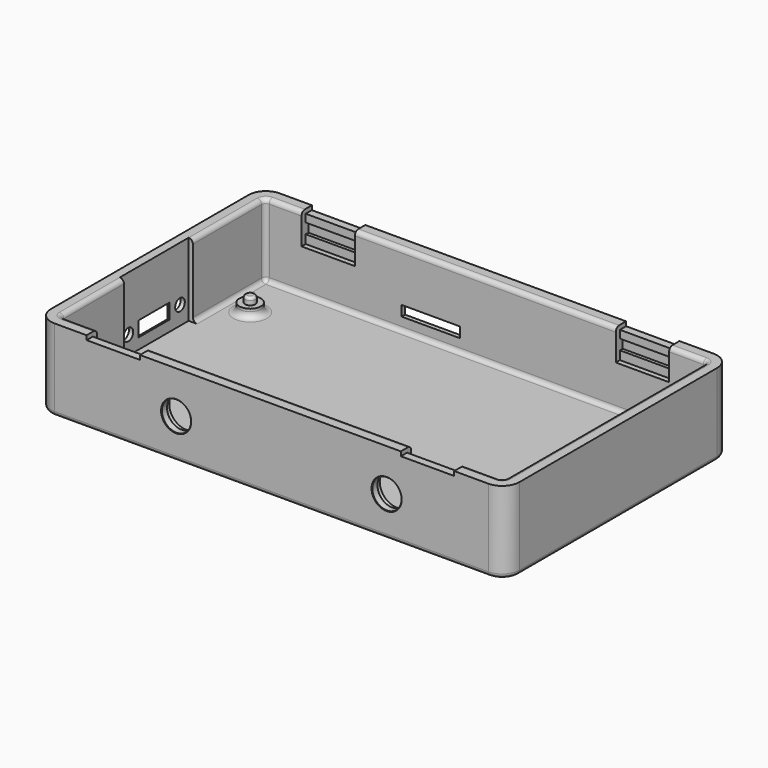
from build123d import *

# Parameters (mm, degrees)
SKETCH001_W     = 108.85
SKETCH001_H     = 65.42
PAD_DEPTH       = 19
SKETCH002_W     = 59.42
SKETCH002_H     = 102.85
POCKET_DEPTH    = 17
SKETCH003_R     = 2.5
PAD001_DEPTH    = 2
SKETCH004_R     = 1.2
PAD002_DEPTH    = 1.6
SKETCH005_W     = 12.4
SKETCH005_H     = 1
SKETCH005_W_2   = 13.6
SKETCH005_H_2   = 2.4
POCKET001_DEPTH = 3.001
SKETCH006_R     = 3.4
SKETCH006_W     = 12.4
SKETCH006_H     = 1
POCKET002_DEPTH = 3.001
SKETCH007_R     = 1.4
SKETCH007_W     = 9
SKETCH007_H     = 3.5
POCKET003_DEPTH = 3.001
SKETCH008_W     = 1.2
SKETCH008_H     = 12.4
POCKET004_DEPTH = 7.2
SKETCH009_W     = 12.4
SKETCH009_H     = 2.4
POCKET005_DEPTH = 2
SKETCH010_W     = 12.4
SKETCH010_H     = 2.4
POCKET006_DEPTH = 2
SKETCH011_R     = 4
POCKET007_DEPTH = 1.4
POCKET010_DEPTH = 1.4
POCKET011_DEPTH = 1
SKETCH028_W     = 20
SKETCH028_H     = 1
POCKET012_DEPTH = 17
FILLET001_R     = 4
FILLET002_R     = 1
FILLET003_R     = 1
CHAMFER_SIZE    = 0.6
CHAMFER001_SIZE = 0.6
CHAMFER002_SIZE = 0.1
FILLET010_R     = 1.4
FILLET013_R     = 1
FILLET014_R     = 1
FILLET016_R     = 0.6
SKETCH041_R     = 1.2
POCKET019_DEPTH = 3


with BuildPart() as part:
    # Sketch001 → Pad (new body)
    with BuildSketch(Plane.XY):
        with Locations((50.925, 29.21)):
            Rectangle(SKETCH001_W, SKETCH001_H)
    extrude(amount=PAD_DEPTH)

    # Sketch002 (on DatumPlane) → Pocket (cut)
    with BuildSketch(Plane(origin=(50.925, 29.21, 19), x_dir=(0, 1, 0), z_dir=(0, 0, 1))):
        Rectangle(SKETCH002_W, SKETCH002_H)
    extrude(amount=-POCKET_DEPTH, mode=Mode.SUBTRACT)

    # Sketch003 (on DatumPlane) → Pad001 (join)
    with BuildSketch(Plane.XY.offset(2)):
        with Locations((5.105, 47.625)):
            Circle(SKETCH003_R)
        with Locations((94.564, 47.625)):
            Circle(SKETCH003_R)
        with Locations((94.564, 10.795)):
            Circle(SKETCH003_R)
        with Locations((5.105, 10.795)):
            Circle(SKETCH003_R)
    extrude(amount=PAD001_DEPTH)

    # Sketch004 (on DatumPlane) → Pad002 (join)
    with BuildSketch(Plane.XY.offset(4)):
        with Locations((5.105, 47.625)):
            Circle(SKETCH004_R)
        with Locations((94.564, 47.625)):
            Circle(SKETCH004_R)
        with Locations((94.564, 10.795)):
            Circle(SKETCH004_R)
        with Locations((5.105, 10.795)):
            Circle(SKETCH004_R)
    extrude(amount=PAD002_DEPTH)

    # Sketch005 (on DatumPlane) → Pocket001 (cut, through all)
    with BuildSketch(Plane.XZ.offset(-58.92)):
        with Locations((14.2, 18.5)):
            Rectangle(SKETCH005_W, SKETCH005_H)
        with Locations((87.2, 18.5)):
            Rectangle(SKETCH005_W, SKETCH005_H)
        with Locations((38.06, 6.2)):
            Rectangle(SKETCH005_W_2, SKETCH005_H_2)
    extrude(amount=-POCKET001_DEPTH, mode=Mode.SUBTRACT)

    # Sketch006 (on DatumPlane) → Pocket002 (cut, through all)
    with BuildSketch(Plane(origin=(0, -0.5, 0), x_dir=(-1, 0, 0), z_dir=(0, 1, 0))):
        with Locations((-77.7, 9.2)):
            Circle(SKETCH006_R)
        with Locations((-28.8, 9.2)):
            Circle(SKETCH006_R)
        with Locations((-87.2, 18.5)):
            Rectangle(SKETCH006_W, SKETCH006_H)
        with Locations((-14.2, 18.5)):
            Rectangle(SKETCH006_W, SKETCH006_H)
    extrude(amount=-POCKET002_DEPTH, mode=Mode.SUBTRACT)

    # Sketch007 (on DatumPlane) → Pocket003 (cut, through all)
    with BuildSketch(Plane.YZ.offset(-0.5)):
        with Locations((20.5, 6.3)):
            Circle(SKETCH007_R)
        with Locations((35.5, 6.3)):
            Circle(SKETCH007_R)
        with Locations((28, 6.25)):
            Rectangle(SKETCH007_W, SKETCH007_H)
    extrude(amount=-POCKET003_DEPTH, mode=Mode.SUBTRACT)

    # Sketch008 (on DatumPlane) → Pocket004 (cut)
    with BuildSketch(Plane(origin=(50.925, 29.21, 19), x_dir=(0, 1, 0), z_dir=(0, 0, 1))):
        with Locations((-30.31, 36.725)):
            Rectangle(SKETCH008_W, SKETCH008_H)
        with Locations((30.31, 36.725)):
            Rectangle(SKETCH008_W, SKETCH008_H)
        with Locations((30.31, -36.275)):
            Rectangle(SKETCH008_W, SKETCH008_H)
        with Locations((-30.31, -36.275)):
            Rectangle(SKETCH008_W, SKETCH008_H)
    extrude(amount=-POCKET004_DEPTH, mode=Mode.SUBTRACT)

    # Sketch009 (on DatumPlane) → Pocket005 (cut)
    with BuildSketch(Plane.XZ.offset(-58.92)):
        with Locations((14.2, 15)):
            Rectangle(SKETCH009_W, SKETCH009_H)
        with Locations((87.2, 15)):
            Rectangle(SKETCH009_W, SKETCH009_H)
    extrude(amount=-POCKET005_DEPTH, mode=Mode.SUBTRACT)

    # Sketch010 (on DatumPlane) → Pocket006 (cut)
    with BuildSketch(Plane(origin=(0, -0.5, 0), x_dir=(-1, 0, 0), z_dir=(0, 1, 0))):
        with Locations((-87.2, 15)):
            Rectangle(SKETCH010_W, SKETCH010_H)
        with Locations((-14.2, 15)):
            Rectangle(SKETCH010_W, SKETCH010_H)
    extrude(amount=-POCKET006_DEPTH, mode=Mode.SUBTRACT)

    # Sketch011 (on DatumPlane) → Pocket007 (cut)
    with BuildSketch(Plane(origin=(0, -0.5, 0), x_dir=(-1, 0, 0), z_dir=(0, 1, 0))):
        with Locations((-77.7, 9.2)):
            Circle(SKETCH011_R)
        with Locations((-28.8, 9.2)):
            Circle(SKETCH011_R)
    extrude(amount=-POCKET007_DEPTH, mode=Mode.SUBTRACT)

    # Sketch024 (on Face1 of Pocket007) → Pocket010 (cut)
    with BuildSketch(Plane(origin=(0, 61.92, 0), x_dir=(-1, 0, 0), z_dir=(0, 1, 0))):
        with BuildLine():
            ThreePointArc((-44.86, 10), (-48.66, 6.2), (-44.86, 2.4))
            Line((-44.86, 2.4), (-31.26, 2.4))
            ThreePointArc((-31.26, 2.4), (-27.46, 6.2), (-31.26, 10))
            Line((-44.86, 10), (-31.26, 10))
        make_face()
    extrude(amount=-POCKET010_DEPTH, mode=Mode.SUBTRACT)

    # Sketch025 (on Face3 of Pocket010) → Pocket011 (cut)
    with BuildSketch(Plane(origin=(-3.5, 0, 0), x_dir=(0, -1, 0), z_dir=(-1, 0, 0))):
        with BuildLine():
            ThreePointArc((-35.5, 9.3), (-38.5, 6.3), (-35.5, 3.3))
            Line((-35.5, 3.3), (-20.5, 3.3))
            ThreePointArc((-20.5, 3.3), (-17.5, 6.3), (-20.5, 9.3))
            Line((-35.5, 9.3), (-20.5, 9.3))
        make_face()
    extrude(amount=-POCKET011_DEPTH, mode=Mode.SUBTRACT)

    # Sketch028 (on DatumPlane) → Pocket012 (cut)
    with BuildSketch(Plane(origin=(50.925, 29.21, 19), x_dir=(0, 1, 0), z_dir=(0, 0, 1))):
        with Locations((-1.21, 51.925)):
            Rectangle(SKETCH028_W, SKETCH028_H)
    extrude(amount=-POCKET012_DEPTH, mode=Mode.SUBTRACT)

    # Fillet001
    fillet001_edges = [part.edges().sort_by_distance(p)[0] for p in [
        (-3.5, -3.5, 9.5),
        (-3.5, 61.92, 9.5),
        (105.35, -3.5, 9.5),
        (105.35, 61.92, 9.5),
    ]]
    fillet(fillet001_edges, radius=FILLET001_R)

    # Fillet002
    fillet002_edges = [part.edges().sort_by_distance(p)[0] for p in [
        (-0.5, 58.92, 10.5),
        (102.35, 58.92, 10.5),
        (-0.5, -0.5, 10.5),
        (102.35, -0.5, 10.5),
    ]]
    fillet(fillet002_edges, radius=FILLET002_R)

    # Fillet003
    fillet003_edges = [part.edges().sort_by_distance(p)[0] for p in [
        (50.925, -3.5, 0),
    ]]
    fillet(fillet003_edges, radius=FILLET003_R)

    # Chamfer
    chamfer_edges = [part.edges().sort_by_distance(p)[0] for p in [
        (-3.5, 28, 9.3),
        (-2.5, 28, 8),
        (-2.5, 23.5, 6.25),
        (-2.5, 32.5, 6.25),
        (-2.5, 28, 4.5),
    ]]
    chamfer(chamfer_edges, length=CHAMFER_SIZE)

    # Chamfer001
    chamfer001_edges = [part.edges().sort_by_distance(p)[0] for p in [
        (38.06, 61.92, 10),
        (44.86, 60.52, 6.2),
        (38.06, 60.52, 7.4),
        (38.06, 60.52, 5),
        (31.26, 60.52, 6.2),
    ]]
    chamfer(chamfer001_edges, length=CHAMFER001_SIZE)

    # Chamfer002
    chamfer002_edges = [part.edges().sort_by_distance(p)[0] for p in [
        (81.1, -3.5, 9.2),
        (32.2, -3.5, 9.2),
    ]]
    chamfer(chamfer002_edges, length=CHAMFER002_SIZE)

    # Fillet010
    fillet010_edges = [part.edges().sort_by_distance(p)[0] for p in [
        (92.064, 10.795, 2),
        (2.605, 10.795, 2),
        (2.605, 47.625, 2),
        (92.064, 47.625, 2),
    ]]
    fillet(fillet010_edges, radius=FILLET010_R)

    # Fillet013
    fillet013_edges = [part.edges().sort_by_distance(p)[0] for p in [
        (50.925, -0.5, 2),
    ]]
    fillet(fillet013_edges, radius=FILLET013_R)

    # Fillet014
    fillet014_edges = [part.edges().sort_by_distance(p)[0] for p in [
        (102.35, 29.21, 19),
        (50.7, 58.92, 19),
        (-0.5, 9.25, 19),
        (50.7, -0.5, 19),
        (-0.5, 47.96, 19),
    ]]
    fillet(fillet014_edges, radius=FILLET014_R)

    # Fillet016
    fillet016_edges = [part.edges().sort_by_distance(p)[0] for p in [
        (93.364, 47.625, 5.6),
        (93.364, 10.795, 5.6),
        (3.905, 10.795, 5.6),
        (3.905, 47.625, 5.6),
    ]]
    fillet(fillet016_edges, radius=FILLET016_R)

    # Sketch041 (on Face95 of Fillet016) → Pocket019 (cut)
    with BuildSketch(Plane(origin=(-3.5, 0, 0), x_dir=(0, -1, 0), z_dir=(-1, 0, 0))):
        with Locations((-3, 7)):
            Circle(SKETCH041_R)
        with Locations((-3, 12)):
            Circle(SKETCH041_R)
    extrude(amount=-POCKET019_DEPTH, mode=Mode.SUBTRACT)


solid = part.part
